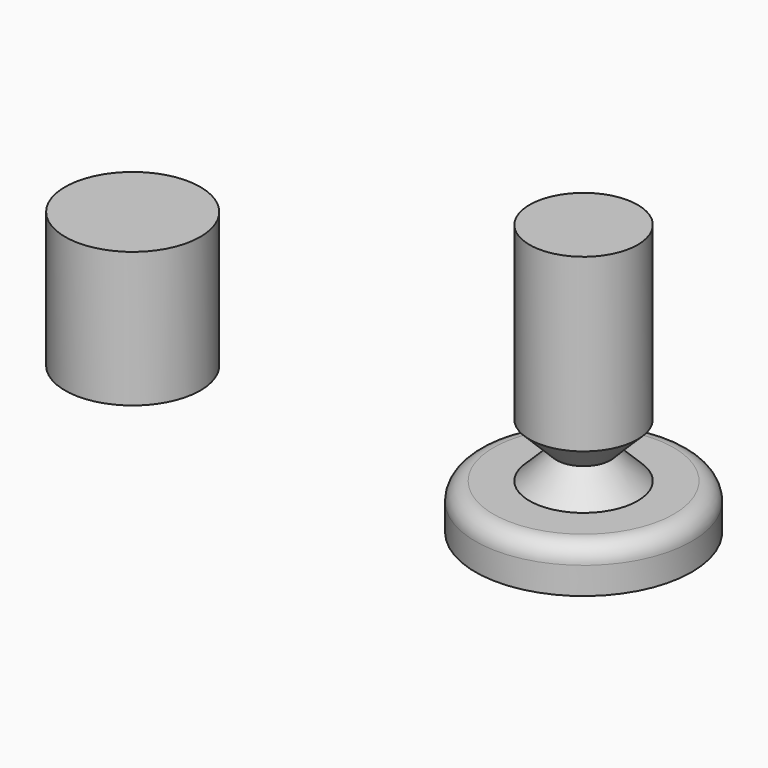
from build123d import *

# Parameters (mm, degrees)
F0_R     = 7.5
F1_DEPTH = 15
F7_R     = 2


with BuildPart() as f1:
    # F0 (on Top) → F1 (new body)
    with BuildSketch(Plane.XY):
        Circle(F0_R)
    extrude(amount=F1_DEPTH)

    # F2 (on Front) → F3 (revolve, cut)
    with BuildSketch(Plane.XZ):
        Polygon((0, 6), (0, 0), (6, 0), align=None)
    revolve(axis=Axis((0, 0, 3), (0, 0, -1)), mode=Mode.SUBTRACT)


with BuildPart() as f5:
    # F4 (on Front) → F5 (revolve)
    with BuildSketch(Plane.XZ):
        Polygon((0, 30), (0, 0), (12, 0), (12, 5), (6, 5), (3, 8), (6, 11), (6, 30), align=None)
    revolve(axis=Axis((0, 0, 15), (0, 0, -1)))


with BuildPart() as f5_1:
    # F6: moved
    add(f5.part.moved(Location((50, 0, 0))))

    # F7
    f7_edges = [f5_1.edges().sort_by_distance(p)[0] for p in [
        (38, 0, 5),
    ]]
    fillet(f7_edges, radius=F7_R)


solid = Compound([f1.part, f5_1.part])
